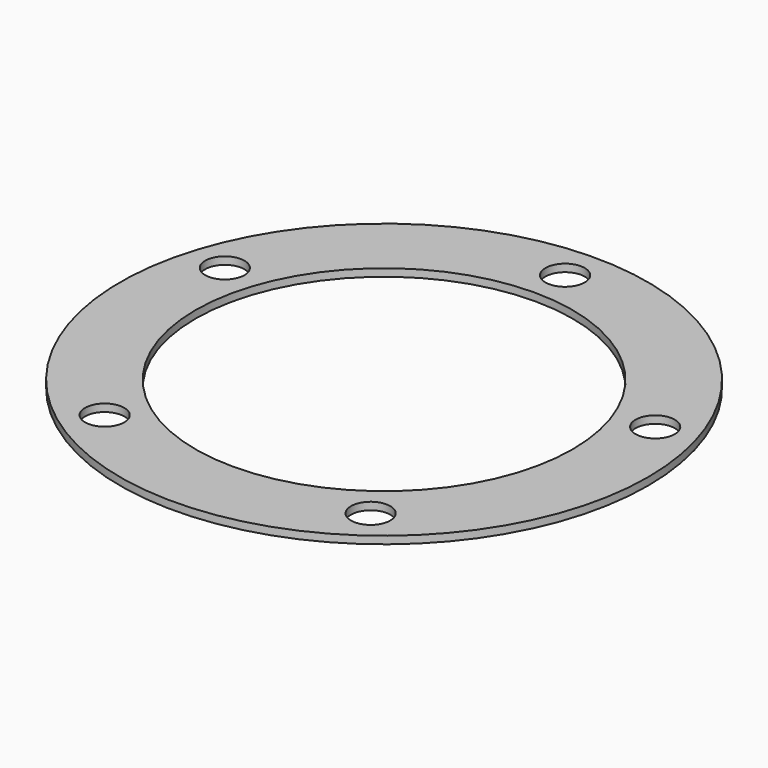
from build123d import *

# Parameters (mm, degrees)
F0_R     = 35
F0_R_2   = 2.6
F0_R_3   = 25
F1_DEPTH = 1


with BuildPart() as f1:
    # F0 (on Top) → F1 (new body)
    with BuildSketch(Plane.XY):
        Circle(F0_R)
        with Locations((-17.633558, -24.27051)):
            Circle(F0_R_2, mode=Mode.SUBTRACT)
        with Locations((17.633558, -24.27051)):
            Circle(F0_R_2, mode=Mode.SUBTRACT)
        with Locations((-28.531695, 9.27051)):
            Circle(F0_R_2, mode=Mode.SUBTRACT)
        Circle(F0_R_3, mode=Mode.SUBTRACT)
        with Locations((28.531695, 9.27051)):
            Circle(F0_R_2, mode=Mode.SUBTRACT)
        with Locations((0, 30)):
            Circle(F0_R_2, mode=Mode.SUBTRACT)
    extrude(amount=F1_DEPTH)


solid = f1.part
